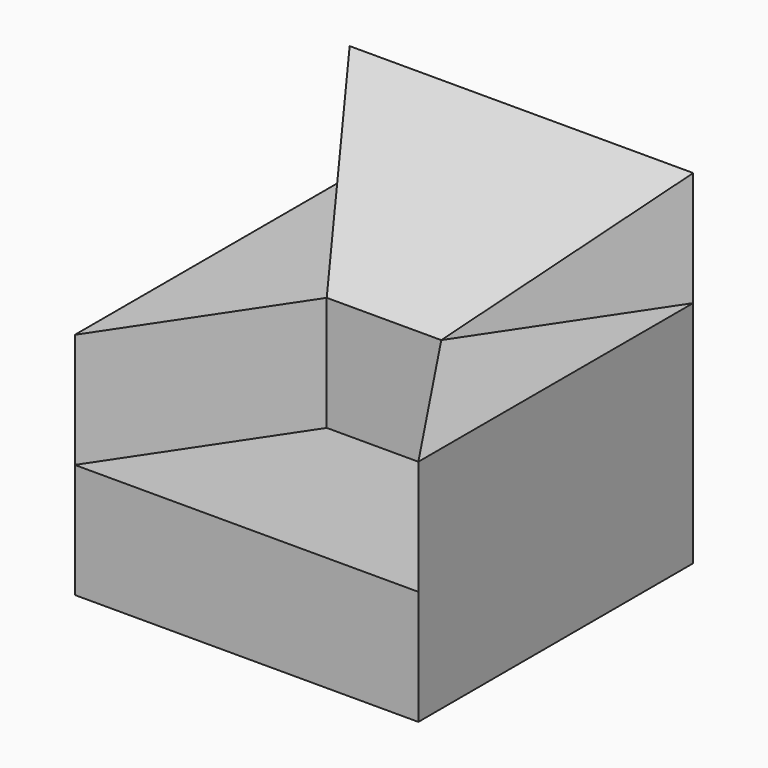
from build123d import *

# Parameters (mm, degrees)
F1_DEPTH = 30
F2_DEPTH = 20
F3_DEPTH = 10
F5_DEPTH = 30.001


with BuildPart() as f1:
    # F0 (on Top) → F1 (new body)
    with BuildSketch(Plane.XY):
        Polygon((10, 15), (0, 0), (30, 0), (20, 15), align=None)
        Polygon((0, 30), (0, 0), (10, 15), align=None)
        Polygon((20, 15), (30, 0), (30, 30), align=None)
        Polygon((30, 30), (0, 30), (10, 15), (20, 15), align=None)
    extrude(amount=-F1_DEPTH)

    # F0 (on Top) → F2 (cut)
    with BuildSketch(Plane.XY):
        Polygon((10, 15), (0, 0), (30, 0), (20, 15), align=None)
    extrude(amount=-F2_DEPTH, mode=Mode.SUBTRACT)

    # F0 (on Top) → F3 (cut)
    with BuildSketch(Plane.XY):
        Polygon((0, 30), (0, 0), (10, 15), align=None)
        Polygon((20, 15), (30, 0), (30, 30), align=None)
    extrude(amount=-F3_DEPTH, mode=Mode.SUBTRACT)

    # F4 (on face) → F5 (cut, through all)
    with BuildSketch(Plane.YZ.offset(30)):
        Polygon((30, 0), (15, 0), (15, -10), align=None)
    extrude(amount=-F5_DEPTH, mode=Mode.SUBTRACT)


solid = f1.part
